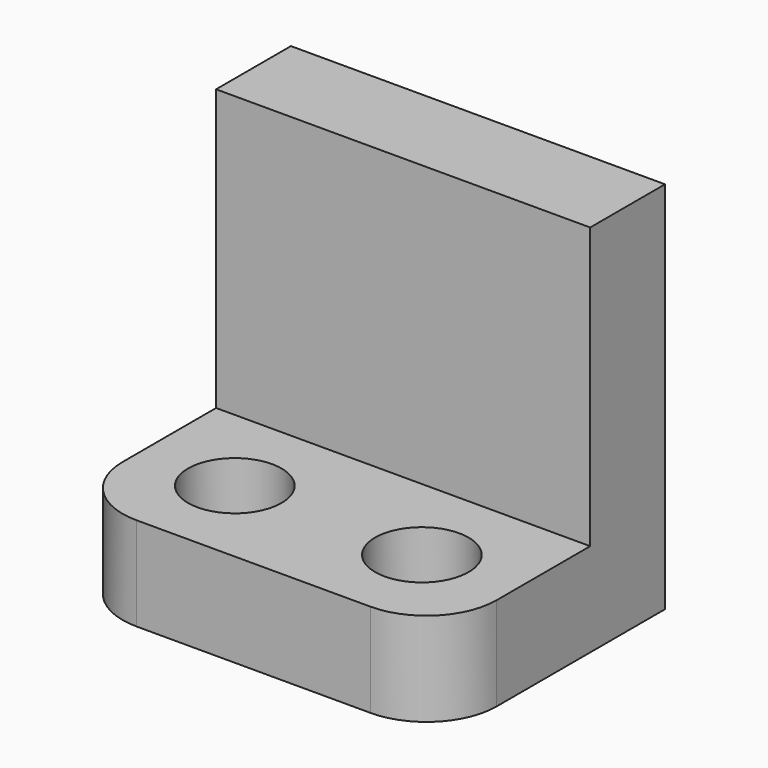
from build123d import *

# Parameters (mm, degrees)
F0_W     = 20.32
F0_H     = 5.08
F1_DEPTH = 15.24
F2_R     = 3.81
F4_D     = 5.08
F5_W     = 20.32
F5_H     = 5.08
F6_DEPTH = 15.24


with BuildPart() as f1:
    # F0 (on Front) → F1 (new body)
    with BuildSketch(Plane.XZ):
        with Locations((10.16, 2.54)):
            Rectangle(F0_W, F0_H)
    extrude(amount=F1_DEPTH)

    # F2
    f2_edges = [f1.edges().sort_by_distance(p)[0] for p in [
        (20.32, -15.24, 2.54),
        (0, -15.24, 2.54),
    ]]
    fillet(f2_edges, radius=F2_R)

    # F4 (through all)
    with Locations(Plane.XY.offset(5.08)):
        with Locations((5.08, -10.16), (15.24, -10.16)):
            Hole(F4_D / 2)

    # F5 (on face) → F6 (join)
    with BuildSketch(Plane.XY.offset(5.08)):
        with Locations((10.16, -2.54)):
            Rectangle(F5_W, F5_H)
    extrude(amount=F6_DEPTH)


solid = f1.part
